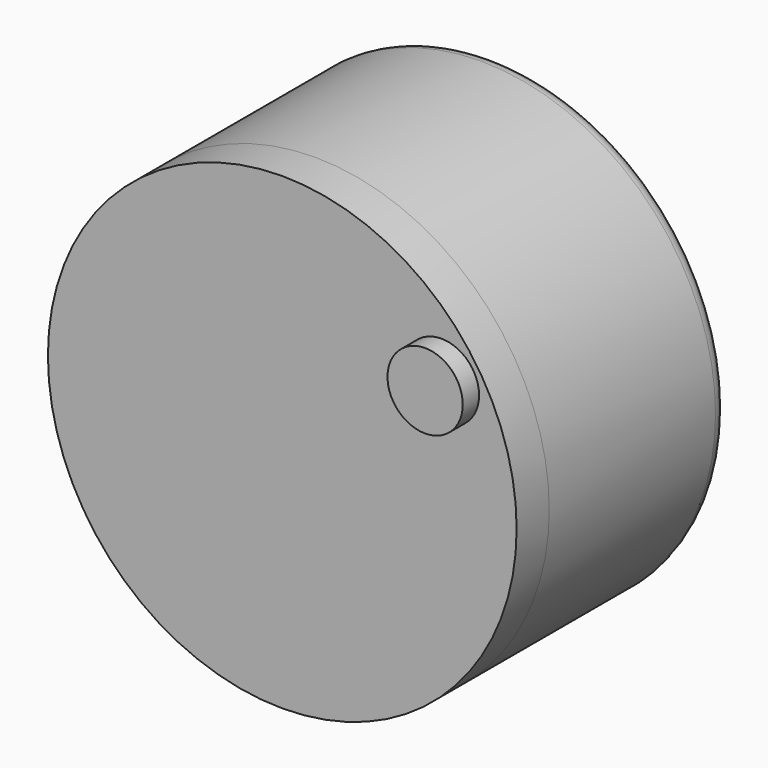
from build123d import *

# Parameters (mm, degrees)
F0_R     = 73.025
F1_DEPTH = 69.85
F2_DEPTH = 0.762
F3_R     = 5.08
F4_DEPTH = 12.7
F5_R     = 11.725025
F6_DEPTH = 19.05


with BuildPart() as f1:
    # F0 (on Front) → F1 (new body)
    with BuildSketch(Plane.XZ):
        Circle(F0_R)
        with BuildLine():
            ThreePointArc((2.553723, 60.270923), (43.549736, 41.743576), (60.325, 0))
            ThreePointArc((60.325, 0), (43.549736, -41.743576), (2.553723, -60.270923))
            ThreePointArc((2.553723, -60.270923), (0.066801, -60.324963), (-2.420234, -60.276431))
            ThreePointArc((-2.420234, -60.276431), (-60.325, 0), (-2.420234, 60.276431))
            ThreePointArc((-2.420234, 60.276431), (0.066801, 60.324963), (2.553723, 60.270923))
        make_face(mode=Mode.SUBTRACT)
        with BuildLine():
            Line((2.553723, -60.270923), (2.553723, 60.270923))
            ThreePointArc((2.553723, 60.270923), (0.066801, 60.324963), (-2.420234, 60.276431))
            Line((-2.420234, 60.276431), (-2.420234, -60.276431))
            ThreePointArc((-2.420234, -60.276431), (0.066801, -60.324963), (2.553723, -60.270923))
        make_face()
    extrude(amount=-F1_DEPTH)

    # F3
    f3_edges = [f1.edges().sort_by_distance(p)[0] for p in [
        (-73.025, 69.85, 0),
    ]]
    fillet(f3_edges, radius=F3_R)


with BuildPart() as f2:
    # F0 (on Front) → F2 (new body)
    with BuildSketch(Plane.XZ):
        with BuildLine():
            ThreePointArc((2.553723, -60.270923), (43.549736, -41.743576), (60.325, 0))
            ThreePointArc((60.325, 0), (43.549736, 41.743576), (2.553723, 60.270923))
            Line((2.553723, 60.270923), (2.553723, -60.270923))
        make_face()
        with BuildLine():
            Line((-2.420234, -60.276431), (-2.420234, 60.276431))
            ThreePointArc((-2.420234, 60.276431), (-60.325, 0), (-2.420234, -60.276431))
        make_face()
    extrude(amount=-F2_DEPTH)


with BuildPart() as f4:
    # F0 (on Front) → F4 (new body)
    with BuildSketch(Plane.XZ):
        Circle(F0_R)
        with BuildLine():
            ThreePointArc((2.553723, 60.270923), (43.549736, 41.743576), (60.325, 0))
            ThreePointArc((60.325, 0), (43.549736, -41.743576), (2.553723, -60.270923))
            ThreePointArc((2.553723, -60.270923), (0.066801, -60.324963), (-2.420234, -60.276431))
            ThreePointArc((-2.420234, -60.276431), (-60.325, 0), (-2.420234, 60.276431))
            ThreePointArc((-2.420234, 60.276431), (0.066801, 60.324963), (2.553723, 60.270923))
        make_face(mode=Mode.SUBTRACT)
        with BuildLine():
            Line((-2.420234, -60.276431), (-2.420234, 60.276431))
            ThreePointArc((-2.420234, 60.276431), (-60.325, 0), (-2.420234, -60.276431))
        make_face()
        with BuildLine():
            Line((2.553723, -60.270923), (2.553723, 60.270923))
            ThreePointArc((2.553723, 60.270923), (0.066801, 60.324963), (-2.420234, 60.276431))
            Line((-2.420234, 60.276431), (-2.420234, -60.276431))
            ThreePointArc((-2.420234, -60.276431), (0.066801, -60.324963), (2.553723, -60.270923))
        make_face()
        with BuildLine():
            ThreePointArc((2.553723, -60.270923), (43.549736, -41.743576), (60.325, 0))
            ThreePointArc((60.325, 0), (43.549736, 41.743576), (2.553723, 60.270923))
            Line((2.553723, 60.270923), (2.553723, -60.270923))
        make_face()
    extrude(amount=F4_DEPTH)


with BuildPart() as f6:
    # F5 (on Front) → F6 (new body)
    with BuildSketch(Plane.XZ):
        with Locations((49.591452, 32.815162)):
            Circle(F5_R)
    extrude(amount=F6_DEPTH)


solid = Compound([f1.part, f2.part, f4.part, f6.part])
